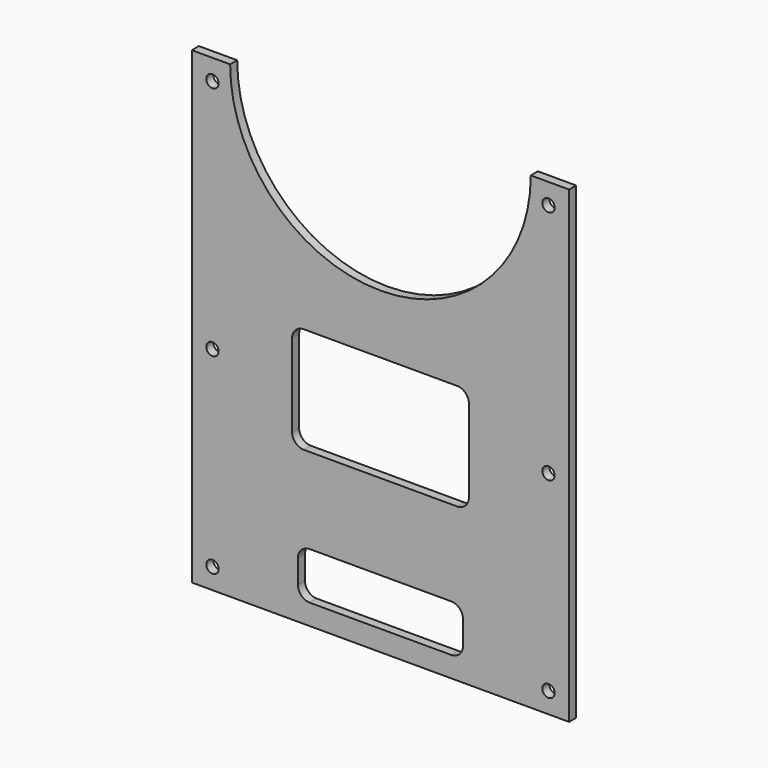
from build123d import *

# Parameters (mm, degrees)
F1_DEPTH = 9.525
F2_R     = 6.6675
F3_DEPTH = 9.526


with BuildPart() as f1:
    # F0 (on Front) → F1 (new body)
    with BuildSketch(Plane.XZ):
        with BuildLine():
            ThreePointArc((161.925, 0), (0, -161.925), (-161.925, 0))
            Line((-161.925, 0), (-203.2, 0))
            Line((-203.2, 0), (-203.2, -504.825))
            Line((-203.2, -504.825), (203.2, -504.825))
            Line((203.2, -504.825), (203.2, 0))
            Line((203.2, 0), (161.925, 0))
        make_face()
        with BuildLine():
            Line((-88.9, -469.9), (-88.9, -444.5))
            ThreePointArc((-88.9, -444.5), (-85.180256, -435.519744), (-76.2, -431.8))
            Line((-76.2, -431.8), (76.2, -431.8))
            ThreePointArc((76.2, -431.8), (85.180256, -435.519744), (88.9, -444.5))
            Line((88.9, -444.5), (88.9, -469.9))
            ThreePointArc((88.9, -469.9), (85.180256, -478.880256), (76.2, -482.6))
            Line((76.2, -482.6), (-76.2, -482.6))
            ThreePointArc((-76.2, -482.6), (-85.180256, -478.880256), (-88.9, -469.9))
        make_face(mode=Mode.SUBTRACT)
        with BuildLine():
            Line((-95.25, -327.025), (-95.25, -238.125))
            ThreePointArc((-95.25, -238.125), (-91.530256, -229.144744), (-82.55, -225.425))
            Line((-82.55, -225.425), (82.55, -225.425))
            ThreePointArc((82.55, -225.425), (91.530256, -229.144744), (95.25, -238.125))
            Line((95.25, -238.125), (95.25, -327.025))
            ThreePointArc((95.25, -327.025), (91.530256, -336.005256), (82.55, -339.725))
            Line((82.55, -339.725), (-82.55, -339.725))
            ThreePointArc((-82.55, -339.725), (-91.530256, -336.005256), (-95.25, -327.025))
        make_face(mode=Mode.SUBTRACT)
    extrude(amount=F1_DEPTH)

    # F2 (on face) → F3 (cut, through all)
    with BuildSketch(Plane.XZ.offset(9.525)):
        with Locations((-180.975, -482.6)):
            Circle(F2_R)
        with Locations((180.975, -482.6)):
            Circle(F2_R)
        with Locations((-180.975, -22.225)):
            Circle(F2_R)
        with Locations((180.975, -22.225)):
            Circle(F2_R)
        with Locations((180.975, -276.225)):
            Circle(F2_R)
        with Locations((-180.975, -276.225)):
            Circle(F2_R)
    extrude(amount=-F3_DEPTH, mode=Mode.SUBTRACT)


solid = f1.part
